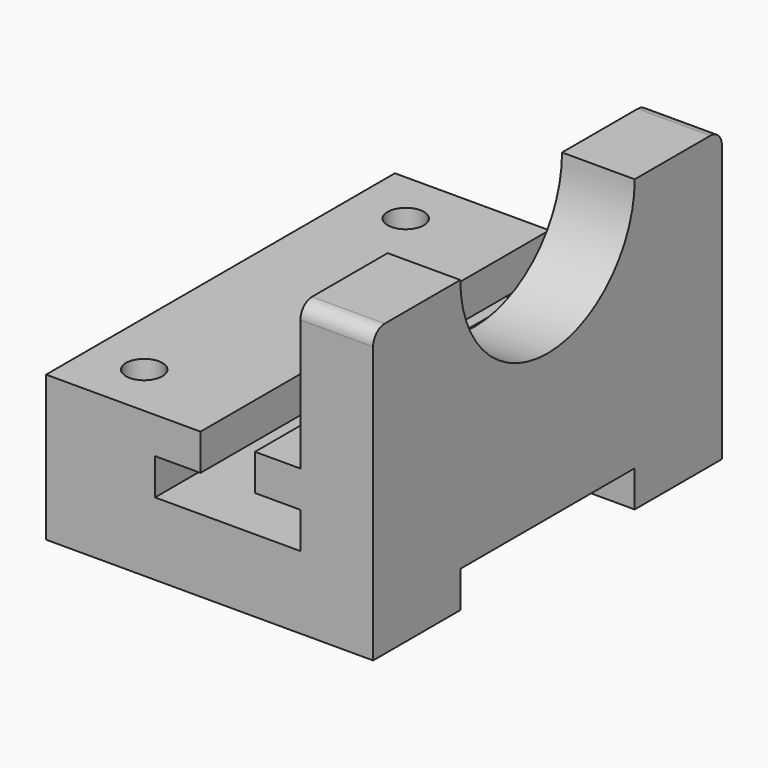
from build123d import *

# Parameters (mm, degrees)
F1_DEPTH = 152.4
F2_W     = 76.2
F2_H     = 12.7
F3_DEPTH = 127
F4_R     = 6.35
F5_DEPTH = 11.58917
F6_DEPTH = 12.91644
F7_R     = 38.1
F8_DEPTH = 25.4
F9_R     = 5.08


with BuildPart() as f1:
    # F0 (on Front) → F1 (new body)
    with BuildSketch(Plane.XZ):
        Polygon((-17.445847, 37.4745), (-71.420847, 37.4745), (-71.420847, -13.3255), (42.879153, -13.3255), (42.879153, 88.2745), (17.479153, 88.2745), (17.479153, 37.4745), (1.604153, 37.4745), (1.604153, 24.7745), (17.479153, 24.7745), (17.479153, 12.0745), (-33.320847, 12.0745), (-33.320847, 24.7745), (-17.445847, 24.7745), align=None)
    extrude(amount=F1_DEPTH)

    # F2 (on face) → F3 (cut)
    with BuildSketch(Plane(origin=(-71.420847, 0, 0), x_dir=(0, -1, 0), z_dir=(-1, 0, 0))):
        with Locations((76.2, -6.9755)):
            Rectangle(F2_W, F2_H)
    extrude(amount=-F3_DEPTH, mode=Mode.SUBTRACT)

    # F4 (on face) → F5 (cut)
    with BuildSketch(Plane.XY.offset(37.4745)):
        with Locations((-52.370847, -19.05)):
            Circle(F4_R)
    extrude(amount=-F5_DEPTH, mode=Mode.SUBTRACT)

    # F4 (on face) → F6 (cut)
    with BuildSketch(Plane.XY.offset(37.4745)):
        with Locations((-52.370847, -133.35)):
            Circle(F4_R)
    extrude(amount=-F6_DEPTH, mode=Mode.SUBTRACT)

    # F7 (on face) → F8 (cut)
    with BuildSketch(Plane.YZ.offset(42.879153)):
        with Locations((-76.2, 88.2745)):
            Circle(F7_R)
    extrude(amount=-F8_DEPTH, mode=Mode.SUBTRACT)

    # F9
    f9_edges = [f1.edges().sort_by_distance(p)[0] for p in [
        (30.179153, 0, 88.2745),
        (30.179153, -152.4, 88.2745),
    ]]
    fillet(f9_edges, radius=F9_R)


solid = f1.part
